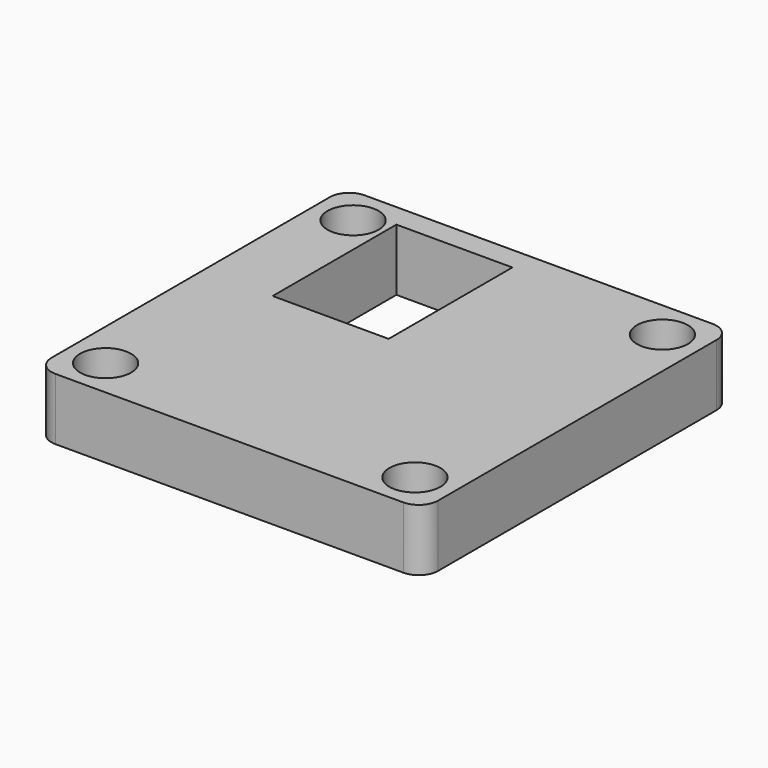
from build123d import *

# Parameters (mm, degrees)
F0_W     = 50
F0_H     = 50
F0_R     = 3.3
F0_W_2   = 15
F0_H_2   = 20
F1_DEPTH = 8
F0_R_2   = 1.6
F2_DEPTH = 1.75
F3_R     = 2.5


with BuildPart() as f1:
    # F0 (on Top) → F1 (new body)
    with BuildSketch(Plane.XY):
        with Locations((1, -3.352269)):
            Rectangle(F0_W, F0_H)
        with Locations((-19, -23.352269)):
            Circle(F0_R, mode=Mode.SUBTRACT)
        with Locations((21, -23.352269)):
            Circle(F0_R, mode=Mode.SUBTRACT)
        with Locations((-7.5, 8.647731)):
            Rectangle(F0_W_2, F0_H_2, mode=Mode.SUBTRACT)
        with Locations((-19, 16.647731)):
            Circle(F0_R, mode=Mode.SUBTRACT)
        with Locations((21, 16.647731)):
            Circle(F0_R, mode=Mode.SUBTRACT)
    extrude(amount=F1_DEPTH)

    # F0 (on Top) → F2 (join)
    with BuildSketch(Plane.XY):
        with Locations((1, -3.352269)):
            Rectangle(F0_W, F0_H)
        with Locations((-19, -23.352269)):
            Circle(F0_R, mode=Mode.SUBTRACT)
        with Locations((21, -23.352269)):
            Circle(F0_R, mode=Mode.SUBTRACT)
        with Locations((-7.5, 8.647731)):
            Rectangle(F0_W_2, F0_H_2, mode=Mode.SUBTRACT)
        with Locations((-19, 16.647731)):
            Circle(F0_R, mode=Mode.SUBTRACT)
        with Locations((21, 16.647731)):
            Circle(F0_R, mode=Mode.SUBTRACT)
        with Locations((21, 16.647731)):
            Circle(F0_R)
        with Locations((21, 16.647731)):
            Circle(F0_R_2, mode=Mode.SUBTRACT)
        with Locations((-19, 16.647731)):
            Circle(F0_R)
        with Locations((-19, 16.647731)):
            Circle(F0_R_2, mode=Mode.SUBTRACT)
        with Locations((-19, -23.352269)):
            Circle(F0_R)
        with Locations((-19, -23.352269)):
            Circle(F0_R_2, mode=Mode.SUBTRACT)
        with Locations((21, -23.352269)):
            Circle(F0_R)
        with Locations((21, -23.352269)):
            Circle(F0_R_2, mode=Mode.SUBTRACT)
    extrude(amount=F2_DEPTH)

    # F3
    f3_edges = [f1.edges().sort_by_distance(p)[0] for p in [
        (-24, 21.647731, 4),
        (26, 21.647731, 4),
        (26, -28.352269, 4),
        (-24, -28.352269, 4),
    ]]
    fillet(f3_edges, radius=F3_R)


solid = f1.part
